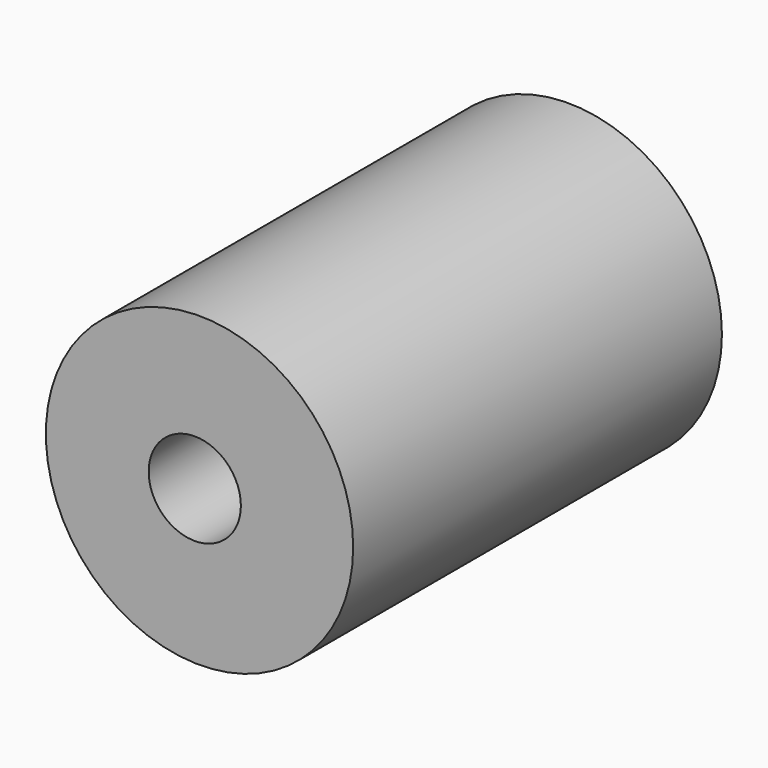
from build123d import *

# Parameters (mm, degrees)
F0_R     = 5
F0_R_2   = 1.5
F1_DEPTH = 15
F2_DEPTH = 10


with BuildPart() as f1:
    # F0 (on Front) → F1 (new body)
    with BuildSketch(Plane.XZ):
        with Locations((0.154151, 0)):
            Circle(F0_R)
        Circle(F0_R_2, mode=Mode.SUBTRACT)
        Circle(F0_R_2)
    extrude(amount=-F1_DEPTH)

    # F0 (on Front) → F2 (cut)
    with BuildSketch(Plane.XZ):
        Circle(F0_R_2)
    extrude(amount=-F2_DEPTH, mode=Mode.SUBTRACT)


solid = f1.part
